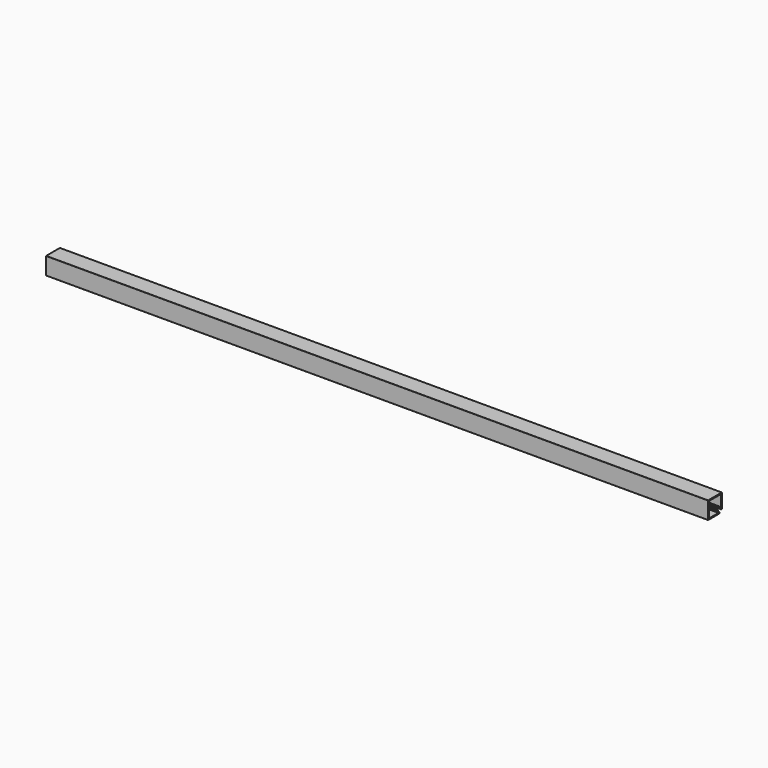
from build123d import *

# Parameters (mm, degrees)
F1_DEPTH = 1000


with BuildPart() as f1:
    # F0 (on Right) → F1 (new body)
    with BuildSketch(Plane.YZ):
        with BuildLine():
            ThreePointArc((26.264214, 25.964214), (26.176346, 26.176346), (25.964214, 26.264214))
            Line((25.964214, 26.264214), (0.3, 26.264214))
            ThreePointArc((0.3, 26.264214), (0.087868, 26.176346), (0, 25.964214))
            Line((0, 25.964214), (0, 0.3))
            ThreePointArc((0, 0.3), (0.087868, 0.087868), (0.3, 0))
            Line((0.3, 0), (21.7, 0))
            ThreePointArc((21.7, 0), (21.912132, 0.087868), (22, 0.3))
            Line((22, 0.3), (22, 1.475736))
            ThreePointArc((22, 1.475736), (21.977164, 1.590541), (21.912132, 1.687868))
            Line((21.912132, 1.687868), (18.464466, 5.135534))
            Line((18.464466, 5.135534), (18.464466, 6.135534))
            ThreePointArc((18.464466, 6.135534), (18.391243, 6.312311), (18.214466, 6.385534))
            Line((18.214466, 6.385534), (16.241674, 6.385534))
            ThreePointArc((16.241674, 6.385534), (15.96451, 6.200339), (16.029542, 5.873402))
            Line((16.029542, 5.873402), (19.790812, 2.112132))
            ThreePointArc((19.790812, 2.112132), (19.855844, 1.785195), (19.57868, 1.6))
            Line((19.57868, 1.6), (1.9, 1.6))
            ThreePointArc((1.9, 1.6), (1.687868, 1.687868), (1.6, 1.9))
            Line((1.6, 1.9), (1.6, 24.364214))
            ThreePointArc((1.6, 24.364214), (1.687868, 24.576346), (1.9, 24.664214))
            Line((1.9, 24.664214), (24.364214, 24.664214))
            ThreePointArc((24.364214, 24.664214), (24.576346, 24.576346), (24.664214, 24.364214))
            Line((24.664214, 24.364214), (24.664214, 6.685534))
            ThreePointArc((24.664214, 6.685534), (24.479019, 6.40837), (24.152082, 6.473402))
            Line((24.152082, 6.473402), (20.390812, 10.234672))
            ThreePointArc((20.390812, 10.234672), (20.063875, 10.299704), (19.87868, 10.02254))
            Line((19.87868, 10.02254), (19.87868, 8.049747))
            ThreePointArc((19.87868, 8.049747), (19.951903, 7.872971), (20.12868, 7.799747))
            Line((20.12868, 7.799747), (21.12868, 7.799747))
            Line((21.12868, 7.799747), (24.576346, 4.352082))
            ThreePointArc((24.576346, 4.352082), (24.673673, 4.28705), (24.788478, 4.264214))
            Line((24.788478, 4.264214), (25.964214, 4.264214))
            ThreePointArc((25.964214, 4.264214), (26.176346, 4.352082), (26.264214, 4.564214))
            Line((26.264214, 4.564214), (26.264214, 25.964214))
        make_face()
    extrude(amount=F1_DEPTH)


solid = f1.part
